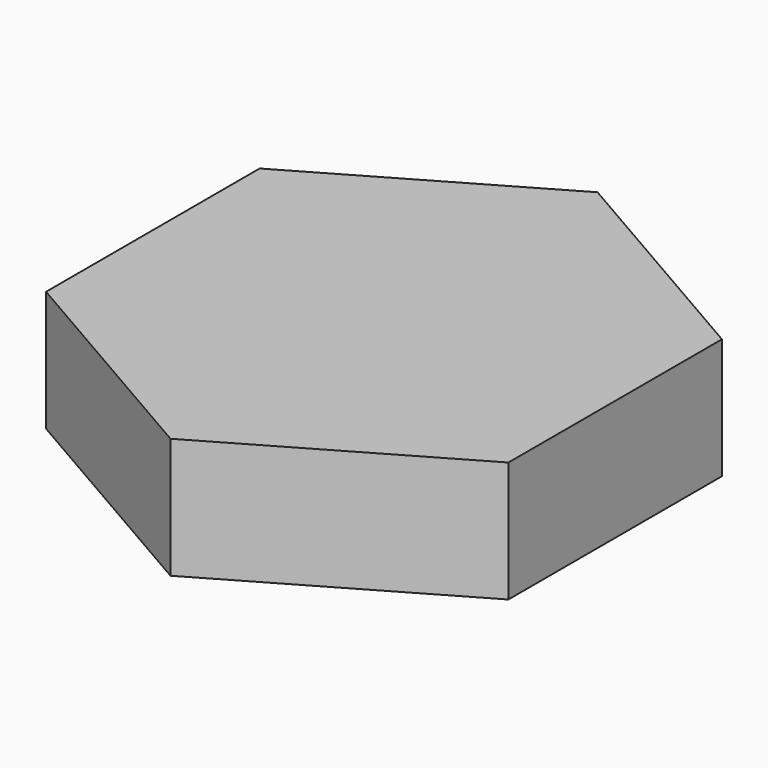
from build123d import *

# Parameters (mm, degrees)
F2_DEPTH = 4
F1_DEPTH = 2


with BuildPart() as f2:
    # F0 (on Top) → F2 (new body)
    with BuildSketch(Plane.XY):
        Polygon((11.5, 6.639528), (0, 13.279056), (-11.5, 6.639528), (-11.5, -6.639528), (0, -13.279056), (11.5, -6.639528), align=None)
        Polygon((0, 9.814955), (8.5, 4.907477), (8.5, -4.907477), (0, -9.814955), (-8.5, -4.907477), (-8.5, 4.907477), align=None, mode=Mode.SUBTRACT)
    extrude(amount=-F2_DEPTH)

    # F0 (on Top) → F1 (join)
    with BuildSketch(Plane.XY):
        Polygon((11.5, 6.639528), (0, 13.279056), (-11.5, 6.639528), (-11.5, -6.639528), (0, -13.279056), (11.5, -6.639528), align=None)
        Polygon((0, 9.814955), (8.5, 4.907477), (8.5, -4.907477), (0, -9.814955), (-8.5, -4.907477), (-8.5, 4.907477), align=None, mode=Mode.SUBTRACT)
        Polygon((8.5, -4.907477), (8.5, 4.907477), (0, 9.814955), (-8.5, 4.907477), (-8.5, -4.907477), (0, -9.814955), align=None)
    extrude(amount=F1_DEPTH)


solid = f2.part
